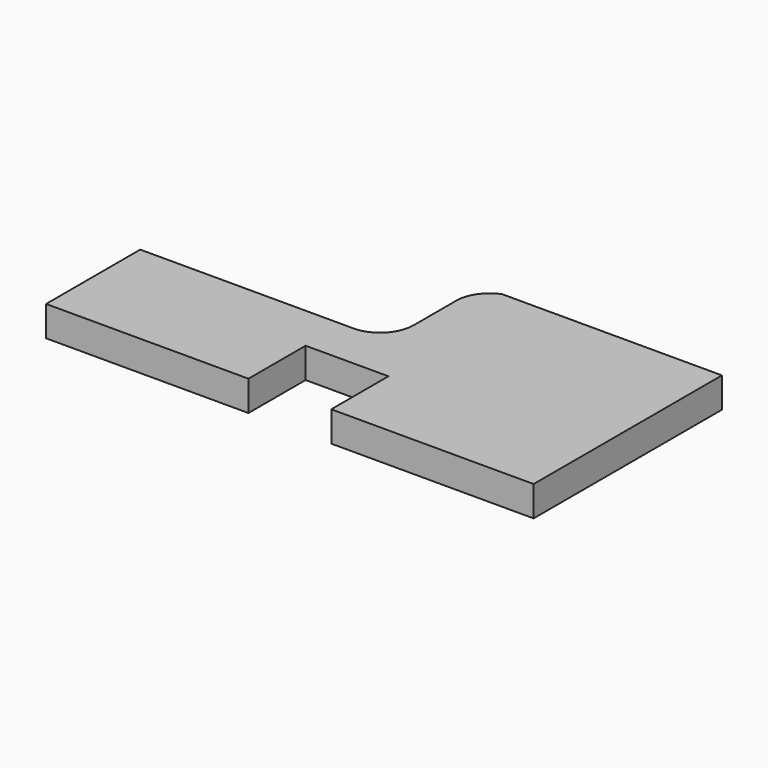
from build123d import *

# Parameters (mm, degrees)
F1_DEPTH = 36


with BuildPart() as f1:
    # F0 (on Top) → F1 (new body)
    with BuildSketch(Plane.XY):
        with BuildLine():
            Line((-296.636514, -22.46141), (-296.636514, -162.46141))
            Line((-296.636514, -162.46141), (-55.886514, -162.46141))
            Line((-55.886514, -162.46141), (-55.886514, -77.46141))
            Line((-55.886514, -77.46141), (42.613486, -77.46141))
            Line((42.613486, -77.46141), (42.613486, -162.46141))
            Line((42.613486, -162.46141), (283.363486, -162.46141))
            Line((283.363486, -162.46141), (283.363486, 117.53859))
            Line((283.363486, 117.53859), (21.953639, 117.53859))
            ThreePointArc((21.953639, 117.53859), (2.829002, 101.6535), (-3.217393, 77.53859))
            Line((-3.217393, 77.53859), (-3.217393, 17.53859))
            ThreePointArc((-3.217393, 17.53859), (-16.114905, -12.026696), (-46.636514, -22.46141))
            Line((-46.636514, -22.46141), (-296.636514, -22.46141))
        make_face()
    extrude(amount=F1_DEPTH)


solid = f1.part
